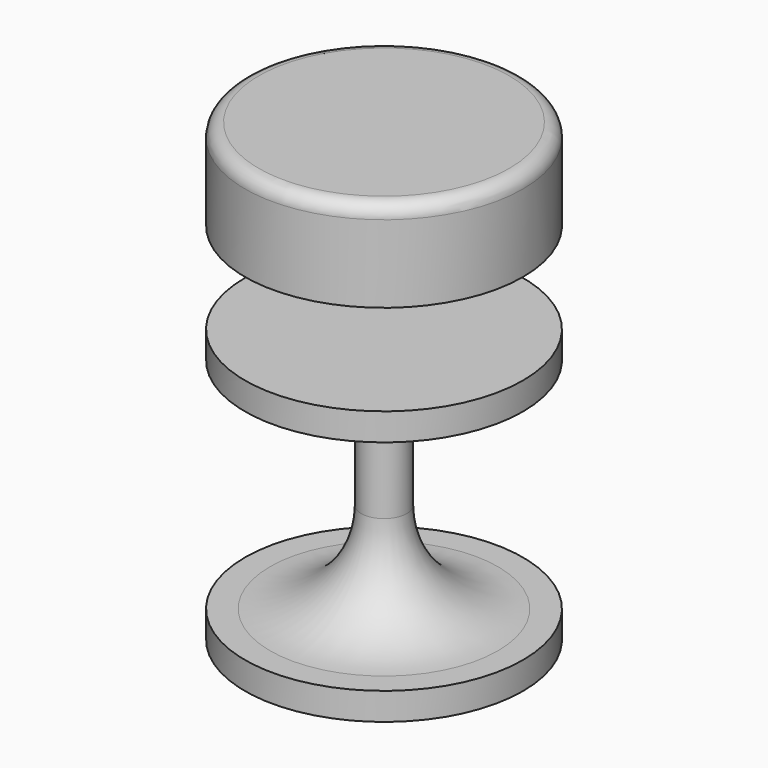
from build123d import *

# Parameters (mm, degrees)
F0_W = 152.5
F0_H = 100
F2_R = 15


with BuildPart() as f1:
    # F0 (on Front) → F1 (revolve)
    with BuildSketch(Plane.XZ):
        with BuildLine():
            Line((0, 300), (0, 0))
            Line((0, 0), (152.5, 0))
            Line((152.5, 0), (152.5, 30))
            Line((152.5, 30), (125, 30))
            ThreePointArc((125, 30), (54.289322, 59.289322), (25, 130))
            Line((25, 130), (25, 213.571429))
            ThreePointArc((25, 213.571429), (26.212825, 219.480218), (29.655172, 224.433498))
            Line((29.655172, 224.433498), (48.534483, 242.413793))
            ThreePointArc((48.534483, 242.413793), (80.360932, 262.847669), (117.5, 270))
            Line((117.5, 270), (152.5, 270))
            Line((152.5, 270), (152.5, 300))
            Line((152.5, 300), (0, 300))
        make_face()
        with Locations((76.25, 450)):
            Rectangle(F0_W, F0_H)
    revolve(axis=Axis((0, 0, 150), (0, 0, 1)))

    # F2
    f2_edges = [f1.edges().sort_by_distance(p)[0] for p in [
        (-152.5, 0, 500),
    ]]
    fillet(f2_edges, radius=F2_R)


solid = f1.part
